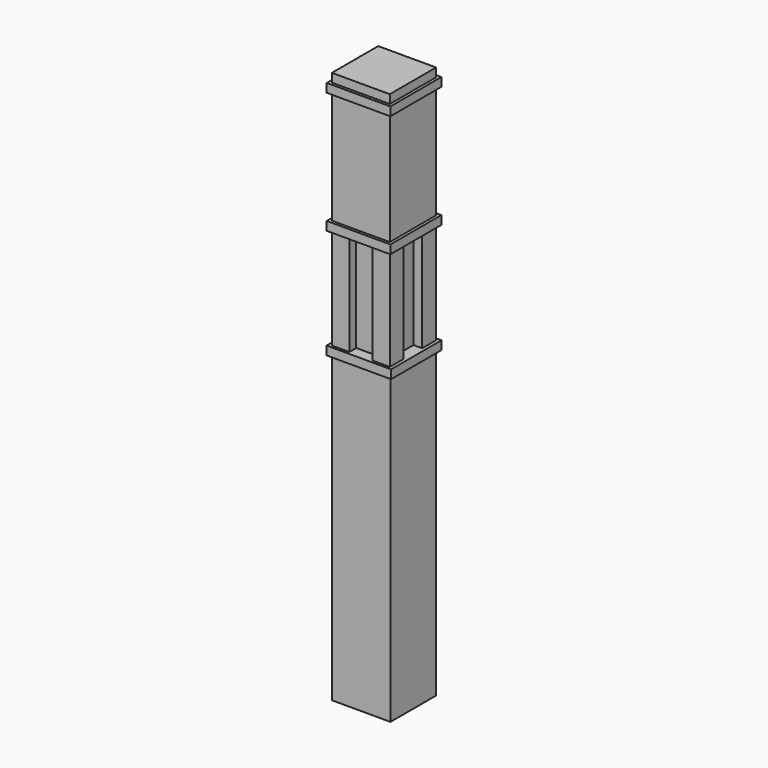
from build123d import *

# Parameters (mm, degrees)
F0_W           = 128.778
F0_H           = 125.476
F1_DEPTH       = 673.1
F2_W           = 88.9
F2_H           = 88.9
F3_DEPTH       = 508
F4_W           = 141.4779941578
F4_H           = 138.1759941578
F4_W_2         = 88.9
F4_H_2         = 88.9
F5_DEPTH       = 12.7
F6_W           = 141.4779941578
F6_H           = 138.1759941578
F6_W_2         = 128.778
F6_H_2         = 125.476
F7_DEPTH       = 6.35
F8_W           = 38.1
F8_H           = 38.1
F9_DEPTH       = 495.3
F10_W          = 139.7
F10_H          = 139.7
F10_W_2        = 127
F10_H_2        = 127
F11_DEPTH      = 6.35
F12_W          = 139.7
F12_H          = 139.7
F13_DEPTH      = 12.7
F14_W          = 50.8
F14_H          = 254
F15_DEPTH      = 19.05
F15_DEPTH_BACK = 107.95
F16_W          = 50.8
F16_H          = 254
F17_DEPTH      = 19.05
F17_DEPTH_BACK = 107.95
F18_W          = 139.7
F18_H          = 19.05
F19_DEPTH      = 133.35
F19_DEPTH_BACK = 6.35
F20_W          = 127
F20_H          = 127
F21_DEPTH      = 19.05


with BuildPart() as f1:
    # F0 (on Top) → F1 (new body)
    with BuildSketch(Plane.XY):
        Rectangle(F0_W, F0_H)
    extrude(amount=F1_DEPTH)

    # F2 (on face) → F3 (join)
    with BuildSketch(Plane.XY.offset(673.1)):
        Rectangle(F2_W, F2_H)
    extrude(amount=F3_DEPTH)

    # F4 (on face) → F5 (join)
    with BuildSketch(Plane.XY.offset(673.1)):
        Rectangle(F4_W, F4_H)
        Rectangle(F4_W_2, F4_H_2, mode=Mode.SUBTRACT)
    extrude(amount=F5_DEPTH)

    # F6 (on face) → F7 (join)
    with BuildSketch(Plane(origin=(0, 0, 673.1), x_dir=(1, 0, 0), z_dir=(0, 0, -1))):
        Rectangle(F6_W, F6_H)
        Rectangle(F6_W_2, F6_H_2, mode=Mode.SUBTRACT)
    extrude(amount=F7_DEPTH)

    # F8 (on face) → F9 (join)
    with BuildSketch(Plane.XY.offset(685.8)):
        with Locations((44.45, 44.45)):
            Rectangle(F8_W, F8_H)
        with Locations((44.45, -44.45)):
            Rectangle(F8_W, F8_H)
        with Locations((-44.45, -44.45)):
            Rectangle(F8_W, F8_H)
        with Locations((-44.45, 44.45)):
            Rectangle(F8_W, F8_H)
    extrude(amount=F9_DEPTH)

    # F10 (on face) → F11 (join)
    with BuildSketch(Plane.XY.offset(1181.1)):
        Rectangle(F10_W, F10_H)
        Rectangle(F10_W_2, F10_H_2, mode=Mode.SUBTRACT)
    extrude(amount=-F11_DEPTH)

    # F12 (on face) → F13 (join)
    with BuildSketch(Plane.XY.offset(1181.1)):
        Rectangle(F12_W, F12_H)
    extrude(amount=F13_DEPTH)

    # F14 (on face) → F15 (join, two sides)
    with BuildSketch(Plane.YZ.offset(44.45)) as f15_sk:
        with Locations((0, 1054.1)):
            Rectangle(F14_W, F14_H)
    extrude(amount=F15_DEPTH)
    extrude(f15_sk.sketch, amount=-F15_DEPTH_BACK)

    # F16 (on face) → F17 (join, two sides)
    with BuildSketch(Plane.XZ.offset(44.45)) as f17_sk:
        with Locations((0, 1054.1)):
            Rectangle(F16_W, F16_H)
    extrude(amount=F17_DEPTH)
    extrude(f17_sk.sketch, amount=-F17_DEPTH_BACK)

    # F18 (on face) → F19 (join, two sides)
    with BuildSketch(Plane.XZ.offset(63.5)) as f19_sk:
        with Locations((0, 917.575)):
            Rectangle(F18_W, F18_H)
    extrude(amount=-F19_DEPTH)
    extrude(f19_sk.sketch, amount=F19_DEPTH_BACK)

    # F20 (on face) → F21 (join)
    with BuildSketch(Plane.XY.offset(1193.8)):
        Rectangle(F20_W, F20_H)
    extrude(amount=F21_DEPTH)


solid = f1.part
